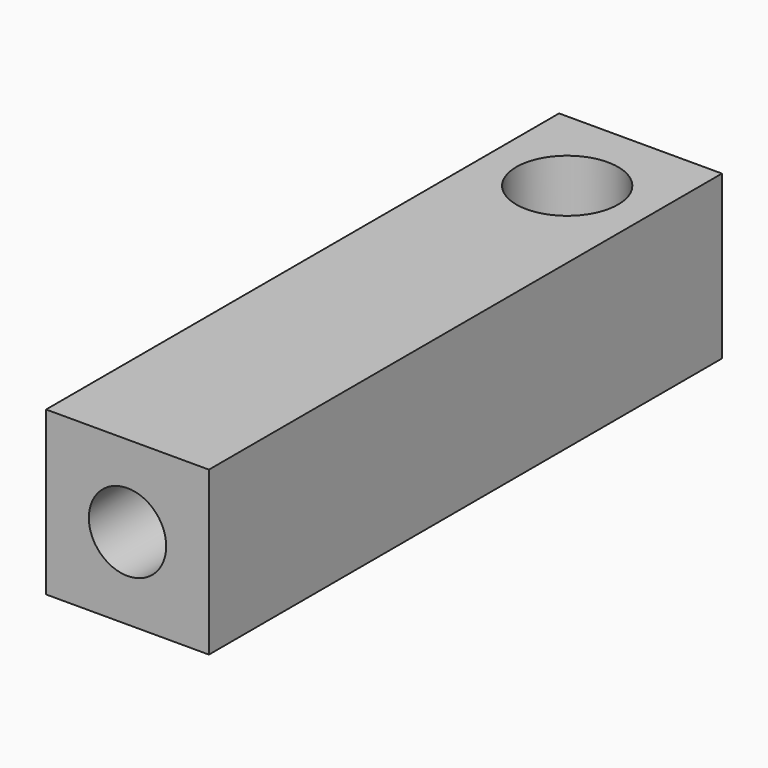
from build123d import *

# Parameters (mm, degrees)
SKETCH_W        = 16
SKETCH_H        = 16
PAD_DEPTH       = 63
SKETCH001_R     = 5
POCKET_DEPTH    = 16
SKETCH002_R     = 3.8
POCKET001_DEPTH = 10


with BuildPart() as part:
    # Sketch → Pad (new body)
    with BuildSketch(Plane.XZ):
        Rectangle(SKETCH_W, SKETCH_H)
    extrude(amount=PAD_DEPTH)

    # Sketch001 → Pocket (cut)
    with BuildSketch(Plane(origin=(0, 0, 8), x_dir=(-1, 0, 0), z_dir=(0, 0, 1))):
        with Locations((0, 9)):
            Circle(SKETCH001_R)
    extrude(amount=-POCKET_DEPTH, mode=Mode.SUBTRACT)

    # Sketch002 → Pocket001 (cut)
    with BuildSketch(Plane.XZ.offset(63)):
        Circle(SKETCH002_R)
    extrude(amount=-POCKET001_DEPTH, mode=Mode.SUBTRACT)


solid = part.part
